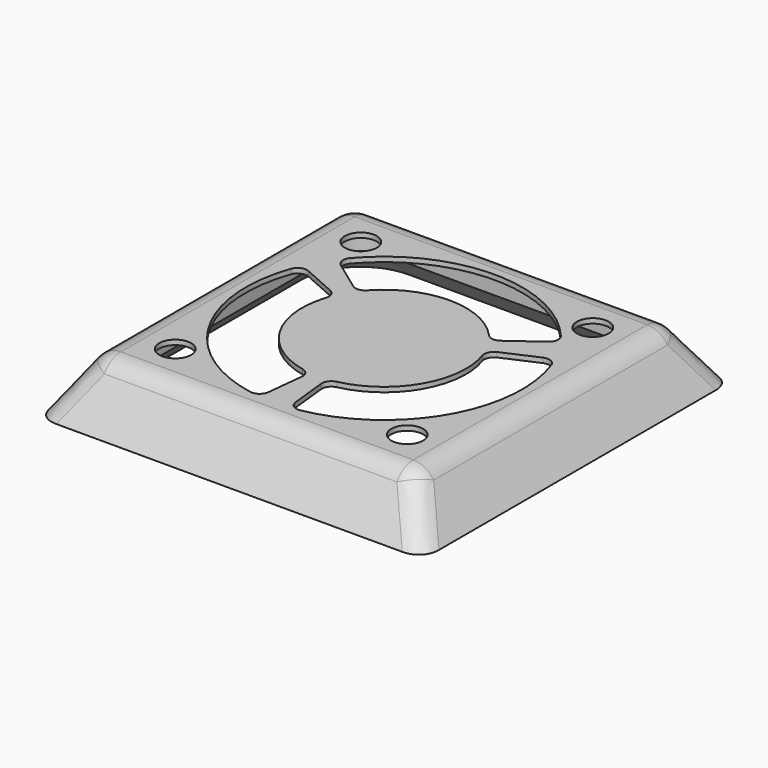
from build123d import *

# Parameters (mm, degrees)
SKETCH037_W     = 40
SKETCH037_H     = 40
SKETCH040_W     = 33
SKETCH040_H     = 33
POCKET025_DEPTH = 5
SKETCH039_R     = 1.65
POCKET026_DEPTH = 5
POCKET027_DEPTH = 5
FILLET001_R     = 2.5
CHAMFER011_SIZE = 3


with BuildPart() as part:
    # Sketch037 → AdditiveLoft section 0
    with BuildSketch(Plane.XY):
        Rectangle(SKETCH037_W, SKETCH037_H)
    # Sketch040 → AdditiveLoft section 1
    with BuildSketch(Plane.XY.offset(5.5)):
        Rectangle(SKETCH040_W, SKETCH040_H)
    loft()

    # Sketch038 → Pocket025 (cut)
    with BuildSketch(Plane.XY):
        with BuildLine():
            ThreePointArc((-12, 15.2), (-14.262742, 14.262742), (-15.2, 12))
            Line((-15.2, -12), (-15.2, 12))
            ThreePointArc((-15.2, -12), (-14.262742, -14.262742), (-12, -15.2))
            Line((12, -15.2), (-12, -15.2))
            ThreePointArc((12, -15.2), (14.262742, -14.262742), (15.2, -12))
            Line((15.2, 12), (15.2, -12))
            ThreePointArc((15.2, 12), (14.262742, 14.262742), (12, 15.2))
            Line((-12, 15.2), (12, 15.2))
        make_face()
    extrude(amount=POCKET025_DEPTH, mode=Mode.SUBTRACT)

    # Sketch039 → Pocket026 (cut)
    with BuildSketch(Plane.XY.offset(5.5)):
        with Locations((-12, 12)):
            Circle(SKETCH039_R)
        with Locations((12, 12)):
            Circle(SKETCH039_R)
        with Locations((12, -12)):
            Circle(SKETCH039_R)
        with Locations((-12, -12)):
            Circle(SKETCH039_R)
    extrude(amount=-POCKET026_DEPTH, mode=Mode.SUBTRACT)

    # Sketch041 → Pocket027 (cut)
    with BuildSketch(Plane.XY.offset(5.5)):
        with BuildLine():
            ThreePointArc((10.891901, 9.265878), (0, 14.3), (-10.891901, 9.265878))
            ThreePointArc((-10.891901, 9.265878), (-11.123261, 8.500069), (-10.71909, 7.80968))
            Line((-10.71909, 7.80968), (-7.63557, 5.563099))
            ThreePointArc((-7.63557, 5.563099), (-6.943871, 5.376635), (-6.30495, 5.700667))
            ThreePointArc((6.30495, 5.700667), (0, 8.5), (-6.30495, 5.700667))
            ThreePointArc((6.30495, 5.700667), (6.943871, 5.376635), (7.63557, 5.563099))
            Line((10.71909, 7.80968), (7.63557, 5.563099))
            ThreePointArc((10.71909, 7.80968), (11.123261, 8.500069), (10.891901, 9.265878))
        make_face()
        with BuildLine():
            ThreePointArc((-13.470436, 4.799724), (-12.384163, -7.15), (-2.578535, -14.065602))
            ThreePointArc((-2.578535, -14.065602), (-1.799645, -13.883061), (-1.403836, -13.187845))
            Line((-1.403836, -13.187845), (-1, -9.394147))
            ThreePointArc((-1, -9.394147), (-1.184367, -8.701886), (-1.784447, -8.310581))
            ThreePointArc((-8.089397, 2.609914), (-7.361216, -4.25), (-1.784447, -8.310581))
            ThreePointArc((-8.089397, 2.609914), (-8.128238, 3.325251), (-8.63557, 3.831048))
            Line((-12.122927, 5.378164), (-8.63557, 3.831048))
            ThreePointArc((-12.122927, 5.378164), (-12.922906, 5.382992), (-13.470436, 4.799724))
        make_face()
        with BuildLine():
            ThreePointArc((2.578535, -14.065602), (12.384163, -7.15), (13.470436, 4.799724))
            ThreePointArc((13.470436, 4.799724), (12.922906, 5.382992), (12.122927, 5.378164))
            Line((8.63557, 3.831048), (12.122927, 5.378164))
            ThreePointArc((8.63557, 3.831048), (8.128238, 3.325251), (8.089397, 2.609914))
            ThreePointArc((1.784447, -8.310581), (7.361216, -4.25), (8.089397, 2.609914))
            ThreePointArc((1.784447, -8.310581), (1.184367, -8.701886), (1, -9.394147))
            Line((1, -9.394147), (1.403836, -13.187845))
            ThreePointArc((1.403836, -13.187845), (1.799645, -13.883061), (2.578535, -14.065602))
        make_face()
    extrude(amount=-POCKET027_DEPTH, mode=Mode.SUBTRACT)

    # Fillet001
    fillet001_edges = [part.edges().sort_by_distance(p)[0] for p in [
        (18.25, -18.25, 2.75),
        (18.25, 18.25, 2.75),
        (-18.25, -18.25, 2.75),
        (-18.25, 18.25, 2.75),
        (16.5, 0, 5.5),
        (0, -16.5, 5.5),
        (-16.5, 0, 5.5),
        (0, 16.5, 5.5),
    ]]
    fillet(fillet001_edges, radius=FILLET001_R)

    # Chamfer011
    chamfer011_edges = [part.edges().sort_by_distance(p)[0] for p in [
        (14.262742, 14.262742, 0),
    ]]
    chamfer(chamfer011_edges, length=CHAMFER011_SIZE)


with BuildPart() as part_1:
    # Body002 placement: moved
    add(part.part.moved(Location((6, 2, 25.3))))


solid = part_1.part
